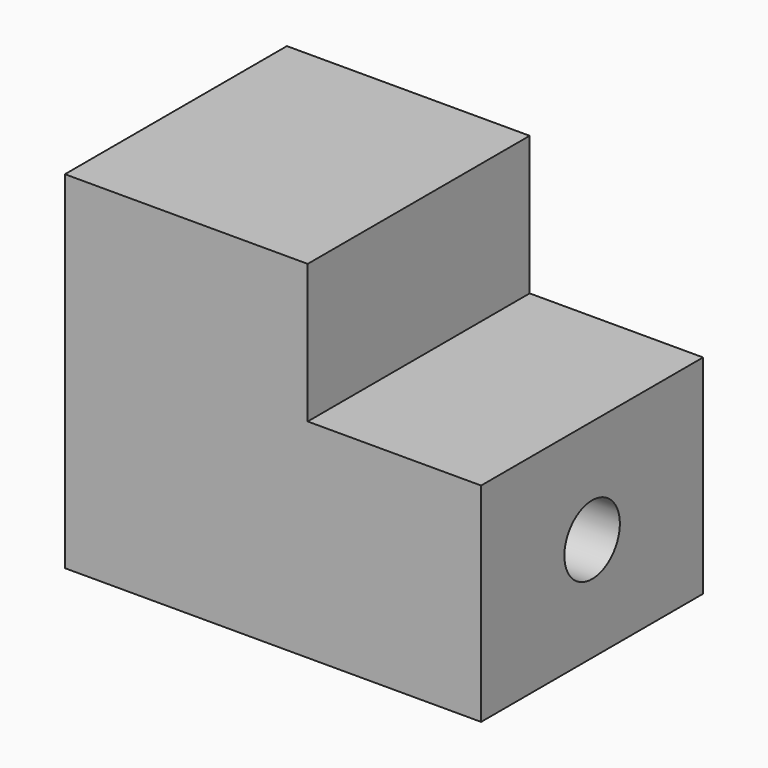
from build123d import *

# Parameters (mm, degrees)
F0_W     = 152.4
F0_H     = 101.6
F1_DEPTH = 127
F2_W     = 63.5
F2_H     = 50.8
F3_DEPTH = 101.6
F4_R     = 12.7
F5_DEPTH = 152.4


with BuildPart() as f1:
    # F0 (on Top) → F1 (new body)
    with BuildSketch(Plane.XY):
        with Locations((-76.2, -50.8)):
            Rectangle(F0_W, F0_H)
    extrude(amount=F1_DEPTH)

    # F2 (on face) → F3 (cut)
    with BuildSketch(Plane.XZ.offset(101.6)):
        with Locations((-31.75, 101.6)):
            Rectangle(F2_W, F2_H)
    extrude(amount=-F3_DEPTH, mode=Mode.SUBTRACT)

    # F4 (on face) → F5 (cut)
    with BuildSketch(Plane(origin=(-152.4, 0, 0), x_dir=(0, -1, 0), z_dir=(-1, 0, 0))):
        with Locations((50.8, 38.1)):
            Circle(F4_R)
    extrude(amount=-F5_DEPTH, mode=Mode.SUBTRACT)


solid = f1.part
